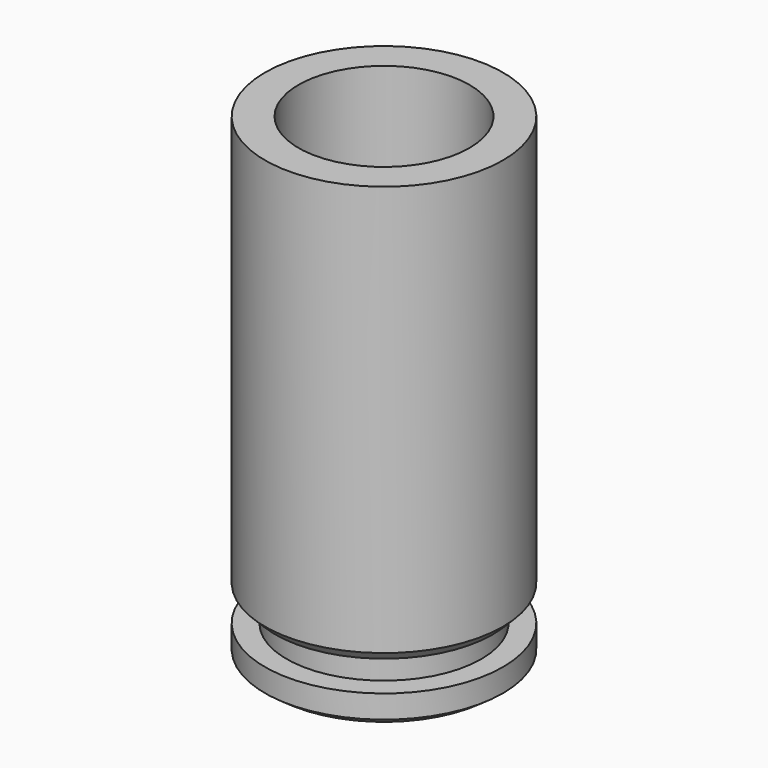
from build123d import *

# Parameters (mm, degrees)
F0_R     = 5.385
F0_R_2   = 3.87
F1_DEPTH = 18.58
F2_R     = 5.385
F3_DEPTH = 0.47
F4_SIZE2 = 0.47
F4_SIZE  = 0.47
F5_R     = 4.405
F6_DEPTH = 1.14
F7_R     = 5.385
F8_DEPTH = 1.4
F9_SIZE2 = 0.3571058445
F9_SIZE  = 0.51


with BuildPart() as f1:
    # F0 (on Top) → F1 (new body)
    with BuildSketch(Plane.XY):
        Circle(F0_R)
        Circle(F0_R_2, mode=Mode.SUBTRACT)
    extrude(amount=F1_DEPTH)

    # F2 (on face) → F3 (join)
    with BuildSketch(Plane(origin=(0, 0, 0), x_dir=(1, 0, 0), z_dir=(0, 0, -1))):
        Circle(F2_R)
    extrude(amount=F3_DEPTH)

    # F4
    f4_edges = [f1.edges().sort_by_distance(p)[0] for p in [
        (-5.385, 0, -0.47),
    ]]
    chamfer(f4_edges, length=F4_SIZE, length2=F4_SIZE2)

    # F5 (on face) → F6 (join)
    with BuildSketch(Plane(origin=(0, 0, -0.47), x_dir=(1, 0, 0), z_dir=(0, 0, -1))):
        Circle(F5_R)
    extrude(amount=F6_DEPTH)

    # F7 (on face) → F8 (join)
    with BuildSketch(Plane(origin=(0, 0, -1.61), x_dir=(1, 0, 0), z_dir=(0, 0, -1))):
        Circle(F7_R)
    extrude(amount=F8_DEPTH)

    # F9
    f9_edges = [f1.edges().sort_by_distance(p)[0] for p in [
        (-5.385, 0, -3.01),
    ]]
    f9_side = f1.faces().sort_by_distance((0, 0, -3.01))[0]
    chamfer(f9_edges, length=F9_SIZE, length2=F9_SIZE2, reference=f9_side)


solid = f1.part
